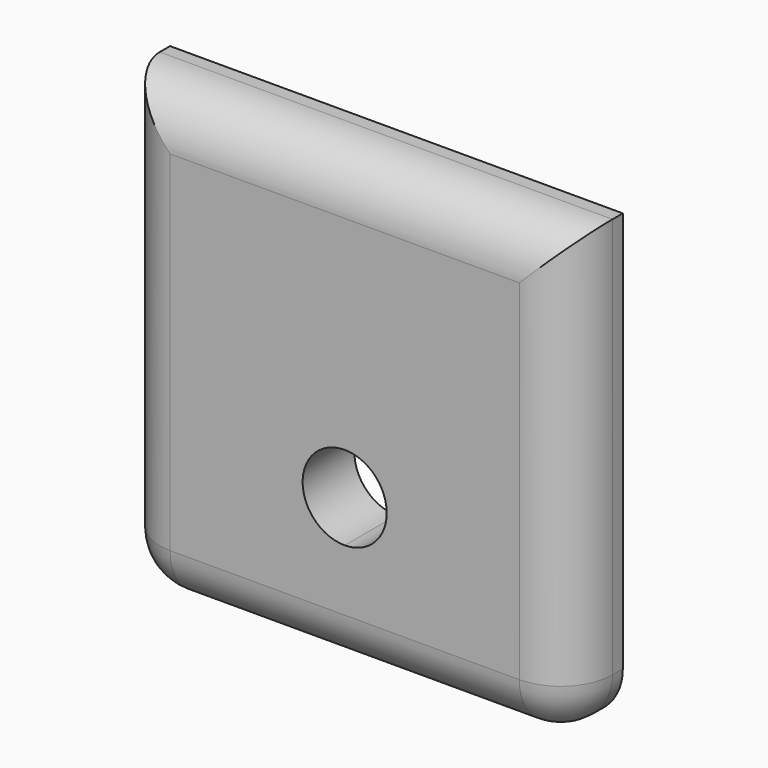
from build123d import *

# Parameters (mm, degrees)
F1_DEPTH = 5
F2_R     = 4


with BuildPart() as f1:
    # F0 (on Front) → F1 (new body)
    with BuildSketch(Plane.XZ):
        Polygon((0, -17.5), (17.5, -17.5), (17.5, 17.5), (-17.5, 17.5), (-17.5, -17.5), align=None)
        with BuildLine():
            ThreePointArc((3.25, -5.5), (2.298097, -7.798097), (0, -8.75))
            ThreePointArc((0, -8.75), (-2.298097, -3.201903), (3.25, -5.5))
        make_face(mode=Mode.SUBTRACT)
    extrude(amount=F1_DEPTH)

    # F2
    f2_edges = [f1.edges().sort_by_distance(p)[0] for p in [
        (-17.5, -5, 0),
        (17.5, -5, 0),
        (0, -5, -17.5),
        (0, -5, 17.5),
        (-17.5, -2.5, -17.5),
        (17.5, -2.5, -17.5),
    ]]
    fillet(f2_edges, radius=F2_R)


solid = f1.part
